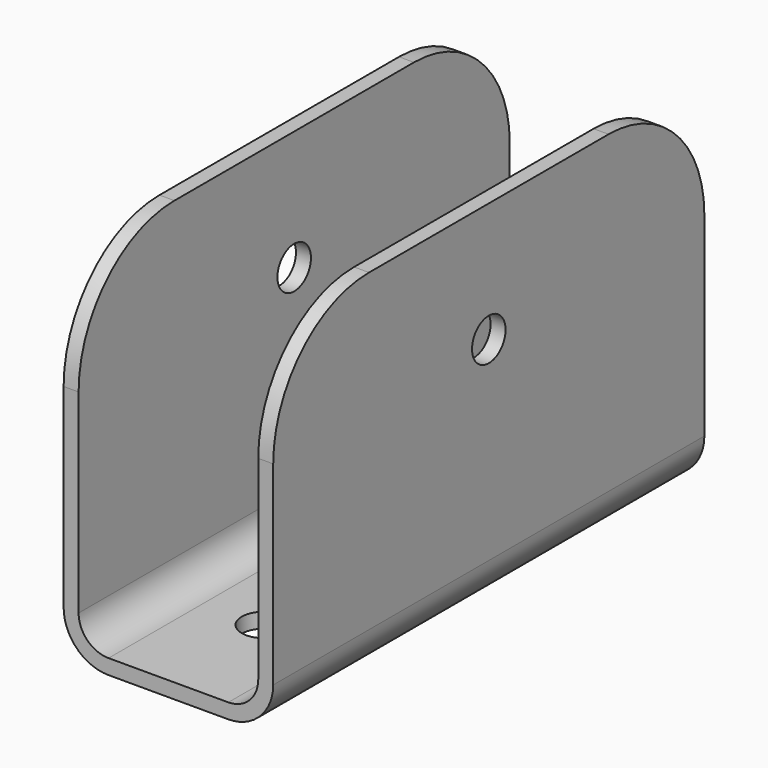
from build123d import *

# Parameters (mm, degrees)
F1_DEPTH      = 57.15
F1_DEPTH_BACK = 57.15
F2_R          = 6.35
F3_R          = 6.35
F4_R          = 9.525
F5_R          = 4.445
F6_DEPTH      = 101.346
F6_DEPTH_BACK = 150.622
F7_R          = 4.7625
F8_DEPTH      = 25.4
F8_DEPTH_BACK = 25.4
F9_R          = 25.4


with BuildPart() as f1:
    # F0 (on Front) → F1 (new body, two sides)
    with BuildSketch(Plane.XZ) as f1_sk:
        Polygon((-22.225, 0), (0, 0), (22.225, 0), (22.225, 76.2), (19.05, 76.2), (19.05, 3.175), (0, 3.175), (-19.05, 3.175), (-19.05, 76.2), (-22.225, 76.2), align=None)
    extrude(amount=F1_DEPTH)
    extrude(f1_sk.sketch, amount=-F1_DEPTH_BACK)

    # F2
    f2_edges = [f1.edges().sort_by_distance(p)[0] for p in [
        (19.05, 0, 3.175),
    ]]
    fillet(f2_edges, radius=F2_R)

    # F3
    f3_edges = [f1.edges().sort_by_distance(p)[0] for p in [
        (-19.05, 0, 3.175),
    ]]
    fillet(f3_edges, radius=F3_R)

    # F4
    f4_edges = [f1.edges().sort_by_distance(p)[0] for p in [
        (22.225, 0, 0),
        (-22.225, 0, 0),
    ]]
    fillet(f4_edges, radius=F4_R)

    # F5 (on face) → F6 (cut, two sides)
    with BuildSketch(Plane(origin=(-22.225, 0, 0), x_dir=(0, -1, 0), z_dir=(-1, 0, 0))) as f6_sk:
        with Locations((0, 50.8)):
            Circle(F5_R)
    extrude(amount=F6_DEPTH, mode=Mode.SUBTRACT)
    extrude(f6_sk.sketch, amount=-F6_DEPTH_BACK, mode=Mode.SUBTRACT)

    # F7 (on face) → F8 (cut, two sides)
    with BuildSketch(Plane.XY.offset(3.175)) as f8_sk:
        with Locations((0, 31.75)):
            Circle(F7_R)
        with Locations((0, -31.75)):
            Circle(F7_R)
    extrude(amount=F8_DEPTH, mode=Mode.SUBTRACT)
    extrude(f8_sk.sketch, amount=-F8_DEPTH_BACK, mode=Mode.SUBTRACT)

    # F9
    f9_edges = [f1.edges().sort_by_distance(p)[0] for p in [
        (20.6375, 57.15, 76.2),
        (-20.6375, 57.15, 76.2),
        (20.6375, -57.15, 76.2),
        (-20.6375, -57.15, 76.2),
    ]]
    fillet(f9_edges, radius=F9_R)


solid = f1.part
